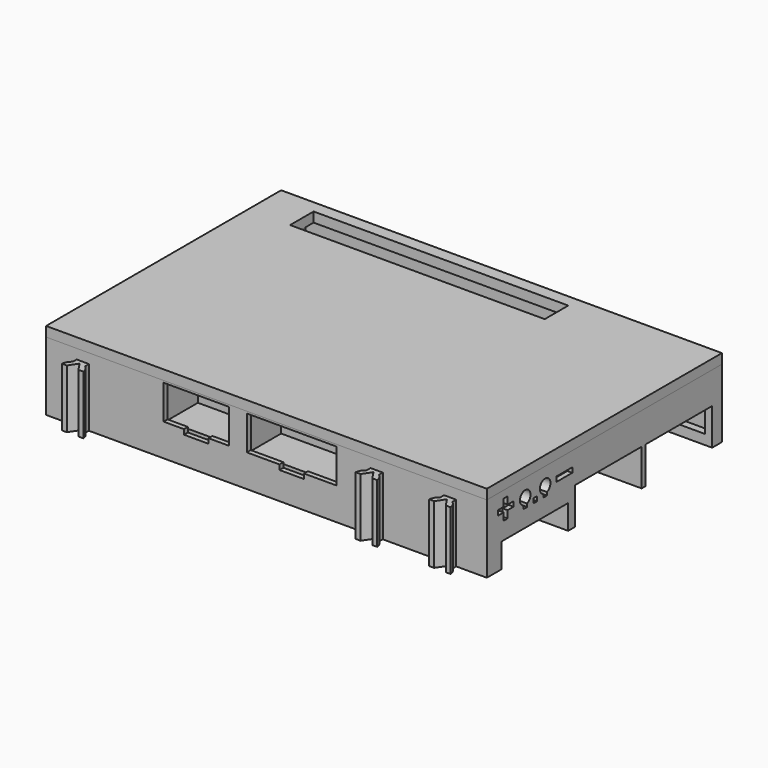
from build123d import *

# Parameters (mm, degrees)
BOX028_W                   = 22
BOX028_H                   = 17
BOX028_DEPTH               = 1.8
BOX029_W                   = 12.5
BOX029_H                   = 15
BOX029_DEPTH               = 1.8
BOX030_W                   = 66
BOX030_H                   = 56.5
BOX030_DEPTH               = 1.6
BOX038_W                   = 16.35
BOX038_H                   = 9
BOX038_DEPTH               = 5
BOX037_W                   = 11.3
BOX037_H                   = 9
BOX037_DEPTH               = 5
BOX039_W                   = 20.35
BOX039_H                   = 9
BOX039_DEPTH               = 9
BOX040_W                   = 15.3
BOX040_H                   = 9
BOX040_DEPTH               = 9
BOX041_W                   = 41.3
BOX041_H                   = 11
BOX041_DEPTH               = 9
BOX035_W                   = 22
BOX035_H                   = 17
BOX035_DEPTH               = 1.8
BOX032_W                   = 10
BOX032_H                   = 2
BOX032_DEPTH               = 7
CHAMFER006_SIZE            = 0.9
CHAMFER006_PLACEMENT_ANGLE = 180
BOX031_W                   = 10
BOX031_H                   = 2
BOX031_DEPTH               = 7
CHAMFER005_SIZE            = 0.9
BOX036_W                   = 12.5
BOX036_H                   = 15
BOX036_DEPTH               = 1.8
BOX034_W                   = 10
BOX034_H                   = 2
BOX034_DEPTH               = 7
CHAMFER008_SIZE            = 0.9
BOX033_W                   = 10
BOX033_H                   = 2
BOX033_DEPTH               = 7
CHAMFER007_SIZE            = 0.9
CHAMFER007_PLACEMENT_ANGLE = 180
BOX011_W                   = 52
BOX011_H                   = 6
BOX011_DEPTH               = 2
BOX009_W                   = 90
BOX009_H                   = 60
BOX009_DEPTH               = 2
CYLINDER014_R              = 1.3
CYLINDER014_DEPTH          = 8
CYLINDER015_R              = 1.3
CYLINDER015_DEPTH          = 8
CYLINDER016_R              = 1.3
CYLINDER016_DEPTH          = 8
CYLINDER013_R              = 1.3
CYLINDER013_DEPTH          = 8
CYLINDER009_R              = 3
CYLINDER009_DEPTH          = 9
CYLINDER010_R              = 3
CYLINDER010_DEPTH          = 9
CYLINDER012_R              = 2.6
CYLINDER012_DEPTH          = 9
CYLINDER011_R              = 3
CYLINDER011_DEPTH          = 9
BOX017_W                   = 2
BOX017_H                   = 2
BOX017_DEPTH               = 2
BOX016_W                   = 2
BOX016_H                   = 2
BOX016_DEPTH               = 2
BOX015_W                   = 2
BOX015_H                   = 2
BOX015_DEPTH               = 2
BOX014_W                   = 2
BOX014_H                   = 2
BOX014_DEPTH               = 2
CHAMFER002_SIZE            = 0.6
CHAMFER002_PLACEMENT_ANGLE = 180
BOX026_W                   = 2
BOX026_H                   = 3
BOX026_DEPTH               = 7
BOX024_W                   = 2
BOX024_H                   = 11
BOX024_DEPTH               = 6.4
CHAMFER004_SIZE            = 0.6
BOX045_W                   = 5
BOX045_H                   = 10
BOX045_DEPTH               = 2
BOX042_W                   = 13.3
BOX042_H                   = 9
BOX042_DEPTH               = 7
BOX043_W                   = 18.35
BOX043_H                   = 9
BOX043_DEPTH               = 7
BOX044_W                   = 5
BOX044_H                   = 10
BOX044_DEPTH               = 2
BOX027_W                   = 2
BOX027_H                   = 3
BOX027_DEPTH               = 7
BOX025_W                   = 2
BOX025_H                   = 11
BOX025_DEPTH               = 4
CHAMFER003_SIZE            = 0.4
BOX020_W                   = 1
BOX020_H                   = 4
BOX020_DEPTH               = 1
BOX021_W                   = 1
BOX021_H                   = 1
BOX021_DEPTH               = 4
BOX022_W                   = 1
BOX022_H                   = 4
BOX022_DEPTH               = 1
BOX018_W                   = 22
BOX018_H                   = 20
BOX018_DEPTH               = 2
BOX019_W                   = 3
BOX019_H                   = 9
BOX019_DEPTH               = 5
BOX007_W                   = 19.5
BOX007_H                   = 1
BOX007_DEPTH               = 14
BOX008_W                   = 2
BOX008_H                   = 38.25
BOX008_DEPTH               = 14
BOX006_W                   = 17.5
BOX006_H                   = 1.75
BOX006_DEPTH               = 14
CYLINDER008_R              = 2.9
CYLINDER008_DEPTH          = 1.3
CHAMFER001_SIZE            = 1.29
BOX003_W                   = 52
BOX003_H                   = 6
BOX003_DEPTH               = 2
BOX004_W                   = 18
BOX004_H                   = 17
BOX004_DEPTH               = 7.5
BOX005_W                   = 18
BOX005_H                   = 17
BOX005_DEPTH               = 7.5
BOX002_W                   = 23
BOX002_H                   = 17
BOX002_DEPTH               = 5
FUSION006_PLACEMENT_ANGLE  = 180
CYLINDER004_R              = 1.6
CYLINDER004_DEPTH          = 4
CYLINDER005_R              = 1.6
CYLINDER005_DEPTH          = 4
CYLINDER007_R              = 1.6
CYLINDER007_DEPTH          = 4
CYLINDER006_R              = 1.6
CYLINDER006_DEPTH          = 4
CYLINDER003_R              = 3
CYLINDER003_DEPTH          = 2
CYLINDER002_R              = 3
CYLINDER002_DEPTH          = 2
CYLINDER001_R              = 2.5
CYLINDER001_DEPTH          = 2
CYLINDER_R                 = 3
CYLINDER_DEPTH             = 2
BOX001_W                   = 87
BOX001_H                   = 58
BOX001_DEPTH               = 12
BOX_W                      = 90
BOX_H                      = 60
BOX_DEPTH                  = 14
CHAMFER_SIZE               = 1.3
EXTRUDE013_DEPTH           = 6
EXTRUDE013_ROLL_ANGLE      = -90
EXTRUDE013_PLACEMENT_ANGLE = 180
EXTRUDE012_DEPTH           = 6
EXTRUDE012_ROLL_ANGLE      = -90
EXTRUDE012_PLACEMENT_ANGLE = 180
FUSION023_PLACEMENT_ANGLE  = 90
EXTRUDE004_DEPTH           = 12
EXTRUDE005_DEPTH           = 12
EXTRUDE006_DEPTH           = 12
EXTRUDE006_PLACEMENT_ANGLE = 180
EXTRUDE007_DEPTH           = 12
EXTRUDE007_PLACEMENT_ANGLE = 180
EXTRUDE008_DEPTH           = 12
EXTRUDE008_PLACEMENT_ANGLE = 180
EXTRUDE009_DEPTH           = 12
EXTRUDE009_PLACEMENT_ANGLE = 180
EXTRUDE010_DEPTH           = 12
EXTRUDE010_PLACEMENT_ANGLE = 180
EXTRUDE011_DEPTH           = 12
EXTRUDE011_PLACEMENT_ANGLE = 180
EXTRUDE_DEPTH              = 12


with BuildPart() as obj1:
    # Box028 → Box028 (new body)
    with BuildSketch(Plane(origin=(-6, 0, 8), x_dir=(1, 0, 0), z_dir=(0, 0, 1))):
        with Locations((11, 8.5)):
            Rectangle(BOX028_W, BOX028_H)
    extrude(amount=BOX028_DEPTH)


with BuildPart() as levelshifter:
    # Box029 → Box029 (new body)
    with BuildSketch(Plane(origin=(-29, 2, 8), x_dir=(1, 0, 0), z_dir=(0, 0, 1))):
        with Locations((6.25, 7.5)):
            Rectangle(BOX029_W, BOX029_H)
    extrude(amount=BOX029_DEPTH)


with BuildPart() as protoboard:
    # Box030 → Box030 (new body)
    with BuildSketch(Plane(origin=(-43, -28, 4), x_dir=(1, 0, 0), z_dir=(0, 0, 1))):
        with Locations((33, 28.25)):
            Rectangle(BOX030_W, BOX030_H)
    extrude(amount=BOX030_DEPTH)


with BuildPart() as buchse_10_pin:
    # Box038 → Box038 (new body)
    with BuildSketch(Plane(origin=(-3, -24, 7.6), x_dir=(1, 0, 0), z_dir=(0, 0, 1))):
        with Locations((8.175, 4.5)):
            Rectangle(BOX038_W, BOX038_H)
    extrude(amount=BOX038_DEPTH)


with BuildPart() as obj2:
    # Box037 → Box037 (new body)
    with BuildSketch(Plane(origin=(-20, -24, 7.6), x_dir=(1, 0, 0), z_dir=(0, 0, 1))):
        with Locations((5.65, 4.5)):
            Rectangle(BOX037_W, BOX037_H)
    extrude(amount=BOX037_DEPTH)

    # Fusion033: union Buchse 10-pin
    add(buchse_10_pin.part)


with BuildPart() as buchse_10_pin001:
    # Box039 → Box039 (new body)
    with BuildSketch(Plane(origin=(-5, -29, 5.6), x_dir=(1, 0, 0), z_dir=(0, 0, 1))):
        with Locations((10.175, 4.5)):
            Rectangle(BOX039_W, BOX039_H)
    extrude(amount=BOX039_DEPTH)


with BuildPart() as obj3:
    # Box040 → Box040 (new body)
    with BuildSketch(Plane(origin=(-22, -29, 5.6), x_dir=(1, 0, 0), z_dir=(0, 0, 1))):
        with Locations((7.65, 4.5)):
            Rectangle(BOX040_W, BOX040_H)
    extrude(amount=BOX040_DEPTH)

    # Fusion031: union Buchse 10-pin001
    add(buchse_10_pin001.part)


with BuildPart() as obj4:
    # Box041 → Box041 (new body)
    with BuildSketch(Plane(origin=(-24, -29, 5.6), x_dir=(1, 0, 0), z_dir=(0, 0, 1))):
        with Locations((20.65, 5.5)):
            Rectangle(BOX041_W, BOX041_H)
    extrude(amount=BOX041_DEPTH)


with BuildPart() as obj5:
    # Box035 → Box035 (new body)
    with BuildSketch(Plane(origin=(-6, 0, 8), x_dir=(1, 0, 0), z_dir=(0, 0, 1))):
        with Locations((11, 8.5)):
            Rectangle(BOX035_W, BOX035_H)
    extrude(amount=BOX035_DEPTH)


with BuildPart() as obj6:
    # Box032 → Box032 (new body)
    with BuildSketch(Plane(origin=(0, -1, 7), x_dir=(1, 0, 0), z_dir=(0, 0, 1))):
        with Locations((5, 1)):
            Rectangle(BOX032_W, BOX032_H)
    extrude(amount=BOX032_DEPTH)

    # Chamfer006
    chamfer006_edges = [obj6.edges().sort_by_distance(p)[0] for p in [
        (5, 1, 7),
    ]]
    chamfer(chamfer006_edges, length=CHAMFER006_SIZE)


with BuildPart() as obj6_1:
    # Chamfer006 placement: moved
    add(obj6.part.moved(Location((10, 17, 0))).rotate(Axis((10, 17, 0), (0, 0, 1)), CHAMFER006_PLACEMENT_ANGLE))


with BuildPart() as obj7:
    # Box031 → Box031 (new body)
    with BuildSketch(Plane(origin=(0, -1, 7), x_dir=(1, 0, 0), z_dir=(0, 0, 1))):
        with Locations((5, 1)):
            Rectangle(BOX031_W, BOX031_H)
    extrude(amount=BOX031_DEPTH)

    # Chamfer005
    chamfer005_edges = [obj7.edges().sort_by_distance(p)[0] for p in [
        (5, 1, 7),
    ]]
    chamfer(chamfer005_edges, length=CHAMFER005_SIZE)

    # Fusion027: union obj6
    add(obj6_1.part)

    # Cut009: cut obj5
    add(obj5.part, mode=Mode.SUBTRACT)


with BuildPart() as levelshifter001:
    # Box036 → Box036 (new body)
    with BuildSketch(Plane(origin=(-29, 2, 8), x_dir=(1, 0, 0), z_dir=(0, 0, 1))):
        with Locations((6.25, 7.5)):
            Rectangle(BOX036_W, BOX036_H)
    extrude(amount=BOX036_DEPTH)


with BuildPart() as obj8:
    # Box034 → Box034 (new body)
    with BuildSketch(Plane(origin=(0, -1, 7), x_dir=(1, 0, 0), z_dir=(0, 0, 1))):
        with Locations((5, 1)):
            Rectangle(BOX034_W, BOX034_H)
    extrude(amount=BOX034_DEPTH)

    # Chamfer008
    chamfer008_edges = [obj8.edges().sort_by_distance(p)[0] for p in [
        (5, 1, 7),
    ]]
    chamfer(chamfer008_edges, length=CHAMFER008_SIZE)


with BuildPart() as obj8_1:
    # Chamfer008 placement: moved
    add(obj8.part.moved(Location((-28, 2, 0))))


with BuildPart() as obj9:
    # Box033 → Box033 (new body)
    with BuildSketch(Plane(origin=(0, -1, 7), x_dir=(1, 0, 0), z_dir=(0, 0, 1))):
        with Locations((5, 1)):
            Rectangle(BOX033_W, BOX033_H)
    extrude(amount=BOX033_DEPTH)

    # Chamfer007
    chamfer007_edges = [obj9.edges().sort_by_distance(p)[0] for p in [
        (5, 1, 7),
    ]]
    chamfer(chamfer007_edges, length=CHAMFER007_SIZE)


with BuildPart() as obj9_1:
    # Chamfer007 placement: moved
    add(obj9.part.moved(Location((-18, 17, 0))).rotate(Axis((-18, 17, 0), (0, 0, 1)), CHAMFER007_PLACEMENT_ANGLE))

    # Fusion028: union obj8
    add(obj8_1.part)

    # Cut010: cut Levelshifter001
    add(levelshifter001.part, mode=Mode.SUBTRACT)


with BuildPart() as obj10:
    # Box011 → Box011 (new body)
    with BuildSketch(Plane(origin=(-36.38, 21.5, 14), x_dir=(1, 0, 0), z_dir=(0, 0, 1))):
        with Locations((26, 3)):
            Rectangle(BOX011_W, BOX011_H)
    extrude(amount=BOX011_DEPTH)


with BuildPart() as obj11:
    # Box009 → Box009 (new body)
    with BuildSketch(Plane(origin=(-45, -30, 14), x_dir=(1, 0, 0), z_dir=(0, 0, 1))):
        with Locations((45, 30)):
            Rectangle(BOX009_W, BOX009_H)
    extrude(amount=BOX009_DEPTH)

    # Cut003: cut obj10
    add(obj10.part, mode=Mode.SUBTRACT)


with BuildPart() as zylinder014:
    # Cylinder014 → Cylinder014 (new body)
    with BuildSketch(Plane(origin=(-39, 24.5, 0), x_dir=(1, 0, 0), z_dir=(0, 0, 1))):
        Circle(CYLINDER014_R)
    extrude(amount=CYLINDER014_DEPTH)


with BuildPart() as fusion017:
    # Cylinder015 → Cylinder015 (new body)
    with BuildSketch(Plane(origin=(-39, -24.5, 0), x_dir=(1, 0, 0), z_dir=(0, 0, 1))):
        Circle(CYLINDER015_R)
    extrude(amount=CYLINDER015_DEPTH)

    # Fusion017: union Zylinder014
    add(zylinder014.part)


with BuildPart() as fusion017_1:
    # Fusion017 placement: moved
    add(fusion017.part.moved(Location((58, 0, 0))))


with BuildPart() as zylinder016:
    # Cylinder016 → Cylinder016 (new body)
    with BuildSketch(Plane(origin=(-39, 24.5, 0), x_dir=(1, 0, 0), z_dir=(0, 0, 1))):
        Circle(CYLINDER016_R)
    extrude(amount=CYLINDER016_DEPTH)


with BuildPart() as obj12:
    # Cylinder013 → Cylinder013 (new body)
    with BuildSketch(Plane(origin=(-39, -24.5, 0), x_dir=(1, 0, 0), z_dir=(0, 0, 1))):
        Circle(CYLINDER013_R)
    extrude(amount=CYLINDER013_DEPTH)

    # Fusion016: union Zylinder016
    add(zylinder016.part)

    # Fusion018: union Fusion017
    add(fusion017_1.part)


with BuildPart() as obj12_1:
    # Fusion018 placement: moved
    add(obj12.part.moved(Location((0, 0, 5.6))))


with BuildPart() as zylinder009:
    # Cylinder009 → Cylinder009 (new body)
    with BuildSketch(Plane(origin=(-39, 24.5, 2), x_dir=(1, 0, 0), z_dir=(0, 0, 1))):
        Circle(CYLINDER009_R)
    extrude(amount=CYLINDER009_DEPTH)


with BuildPart() as fusion013:
    # Cylinder010 → Cylinder010 (new body)
    with BuildSketch(Plane(origin=(-39, -24.5, 2), x_dir=(1, 0, 0), z_dir=(0, 0, 1))):
        Circle(CYLINDER010_R)
    extrude(amount=CYLINDER010_DEPTH)

    # Fusion013: union Zylinder009
    add(zylinder009.part)


with BuildPart() as fusion013_1:
    # Fusion013 placement: moved
    add(fusion013.part.moved(Location((58, 0, 0))))


with BuildPart() as zylinder012:
    # Cylinder012 → Cylinder012 (new body)
    with BuildSketch(Plane(origin=(-39, 24.5, 2), x_dir=(1, 0, 0), z_dir=(0, 0, 1))):
        Circle(CYLINDER012_R)
    extrude(amount=CYLINDER012_DEPTH)


with BuildPart() as obj13:
    # Cylinder011 → Cylinder011 (new body)
    with BuildSketch(Plane(origin=(-39, -24.5, 2), x_dir=(1, 0, 0), z_dir=(0, 0, 1))):
        Circle(CYLINDER011_R)
    extrude(amount=CYLINDER011_DEPTH)

    # Fusion014: union Zylinder012
    add(zylinder012.part)

    # Fusion015: union Fusion013
    add(fusion013_1.part)


with BuildPart() as obj13_1:
    # Fusion015 placement: moved
    add(obj13.part.moved(Location((0, 0, 3.6))))

    # Cut004: cut obj12
    add(obj12_1.part, mode=Mode.SUBTRACT)


with BuildPart() as obj14:
    # Box017 → Box017 (new body)
    with BuildSketch(Plane(origin=(41.3, -28.8, 14), x_dir=(1, 0, 0), z_dir=(0, 0, 1))):
        with Locations((1, 1)):
            Rectangle(BOX017_W, BOX017_H)
    extrude(amount=BOX017_DEPTH)


with BuildPart() as fusion020:
    # Box016 → Box016 (new body)
    with BuildSketch(Plane(origin=(41.3, 26.8, 14), x_dir=(1, 0, 0), z_dir=(0, 0, 1))):
        with Locations((1, 1)):
            Rectangle(BOX016_W, BOX016_H)
    extrude(amount=BOX016_DEPTH)

    # Fusion020: union obj14
    add(obj14.part)


with BuildPart() as fusion020_1:
    # Fusion020 placement: moved
    add(fusion020.part.moved(Location((-84.6, 0, 0))))


with BuildPart() as obj15:
    # Box015 → Box015 (new body)
    with BuildSketch(Plane(origin=(41.3, -28.8, 14), x_dir=(1, 0, 0), z_dir=(0, 0, 1))):
        with Locations((1, 1)):
            Rectangle(BOX015_W, BOX015_H)
    extrude(amount=BOX015_DEPTH)


with BuildPart() as obj16:
    # Box014 → Box014 (new body)
    with BuildSketch(Plane(origin=(41.3, 26.8, 14), x_dir=(1, 0, 0), z_dir=(0, 0, 1))):
        with Locations((1, 1)):
            Rectangle(BOX014_W, BOX014_H)
    extrude(amount=BOX014_DEPTH)

    # Fusion019: union obj15
    add(obj15.part)

    # Fusion021: union Fusion020
    add(fusion020_1.part)

    # Chamfer002
    chamfer002_edges = [obj16.edges().sort_by_distance(p)[0] for p in [
        (43.3, 27.8, 16),
        (42.3, 28.8, 16),
        (43.3, -27.8, 16),
        (42.3, -28.8, 16),
        (-43.3, 27.8, 16),
        (-42.3, 28.8, 16),
        (-43.3, -27.8, 16),
        (-42.3, -28.8, 16),
    ]]
    chamfer(chamfer002_edges, length=CHAMFER002_SIZE)


with BuildPart() as obj16_1:
    # Chamfer002 placement: moved
    add(obj16.part.moved(Location((0, 0, 28))).rotate(Axis((0, 0, 28), (1, 0, 0)), CHAMFER002_PLACEMENT_ANGLE))


with BuildPart() as obj17:
    # Box026 → Box026 (new body)
    with BuildSketch(Plane(origin=(31.5, -19, 7), x_dir=(1, 0, 0), z_dir=(0, 0, 1))):
        with Locations((1, 1.5)):
            Rectangle(BOX026_W, BOX026_H)
    extrude(amount=BOX026_DEPTH)


with BuildPart() as obj18:
    # Box024 → Box024 (new body)
    with BuildSketch(Plane(origin=(31.5, -23, 7.8), x_dir=(1, 0, 0), z_dir=(0, 0, 1))):
        with Locations((1, 5.5)):
            Rectangle(BOX024_W, BOX024_H)
    extrude(amount=BOX024_DEPTH)

    # Cut007: cut obj17
    add(obj17.part, mode=Mode.SUBTRACT)

    # Chamfer004
    chamfer004_edges = [obj18.edges().sort_by_distance(p)[0] for p in [
        (31.5, -14, 7.8),
        (31.5, -21, 7.8),
    ]]
    chamfer(chamfer004_edges, length=CHAMFER004_SIZE)

    # Fusion022: union obj11, obj13, obj16
    add(obj11.part)
    add(obj13_1.part)
    add(obj16_1.part)

    # Fusion029: union obj7, obj9
    add(obj7.part)
    add(obj9_1.part)

    # Fusion030: union obj4
    add(obj4.part)

    # Cut011: cut obj3
    add(obj3.part, mode=Mode.SUBTRACT)

    # Cut012: cut obj2
    add(obj2.part, mode=Mode.SUBTRACT)


with BuildPart() as nut2:
    # Box045 → Box045 (new body)
    with BuildSketch(Plane(origin=(3.66, -34, 6.6), x_dir=(1, 0, 0), z_dir=(0, 0, 1))):
        with Locations((2.5, 5)):
            Rectangle(BOX045_W, BOX045_H)
    extrude(amount=BOX045_DEPTH)


with BuildPart() as buchse_6_pin002:
    # Box042 → Box042 (new body)
    with BuildSketch(Plane(origin=(-20, -34, 7.6), x_dir=(1, 0, 0), z_dir=(0, 0, 1))):
        with Locations((6.65, 4.5)):
            Rectangle(BOX042_W, BOX042_H)
    extrude(amount=BOX042_DEPTH)


with BuildPart() as buchse_10_pin002:
    # Box043 → Box043 (new body)
    with BuildSketch(Plane(origin=(-3, -34, 7.6), x_dir=(1, 0, 0), z_dir=(0, 0, 1))):
        with Locations((9.175, 4.5)):
            Rectangle(BOX043_W, BOX043_H)
    extrude(amount=BOX043_DEPTH)


with BuildPart() as obj19:
    # Box044 → Box044 (new body)
    with BuildSketch(Plane(origin=(-15.85, -34, 6.6), x_dir=(1, 0, 0), z_dir=(0, 0, 1))):
        with Locations((2.5, 5)):
            Rectangle(BOX044_W, BOX044_H)
    extrude(amount=BOX044_DEPTH)

    # Fusion034: union Nut2, Buchse 6-pin002, Buchse 10-pin002
    add(nut2.part)
    add(buchse_6_pin002.part)
    add(buchse_10_pin002.part)


with BuildPart() as obj19_1:
    # Fusion034 placement: moved
    add(obj19.part.moved(Location((-1, 0, -1))))


with BuildPart() as obj20:
    # Box027 → Box027 (new body)
    with BuildSketch(Plane(origin=(29.5, -19, 7), x_dir=(1, 0, 0), z_dir=(0, 0, 1))):
        with Locations((1, 1.5)):
            Rectangle(BOX027_W, BOX027_H)
    extrude(amount=BOX027_DEPTH)


with BuildPart() as obj21:
    # Box025 → Box025 (new body)
    with BuildSketch(Plane(origin=(29.5, -23, 6), x_dir=(1, 0, 0), z_dir=(0, 0, 1))):
        with Locations((1, 5.5)):
            Rectangle(BOX025_W, BOX025_H)
    extrude(amount=BOX025_DEPTH)

    # Chamfer003
    chamfer003_edges = [obj21.edges().sort_by_distance(p)[0] for p in [
        (31.5, -17.5, 10),
    ]]
    chamfer(chamfer003_edges, length=CHAMFER003_SIZE)

    # Cut008: cut obj20
    add(obj20.part, mode=Mode.SUBTRACT)


with BuildPart() as obj22:
    # Box020 → Box020 (new body)
    with BuildSketch(Plane.XY.offset(20)):
        with Locations((0.5, 2)):
            Rectangle(BOX020_W, BOX020_H)
    extrude(amount=BOX020_DEPTH)


with BuildPart() as obj23:
    # Box021 → Box021 (new body)
    with BuildSketch(Plane(origin=(0, 1.5, 18.5), x_dir=(1, 0, 0), z_dir=(0, 0, 1))):
        with Locations((0.5, 0.5)):
            Rectangle(BOX021_W, BOX021_H)
    extrude(amount=BOX021_DEPTH)


with BuildPart() as fusion025:
    # Box022 → Box022 (new body)
    with BuildSketch(Plane(origin=(0, 15, 20), x_dir=(1, 0, 0), z_dir=(0, 0, 1))):
        with Locations((0.5, 2)):
            Rectangle(BOX022_W, BOX022_H)
    extrude(amount=BOX022_DEPTH)

    # Fusion025: union obj22, obj23
    add(obj22.part)
    add(obj23.part)


with BuildPart() as fusion025_1:
    # Fusion025 placement: moved
    add(fusion025.part.moved(Location((44, -27.2, -10))))


with BuildPart() as obj24:
    # Box018 → Box018 (new body)
    with BuildSketch(Plane(origin=(23, -29, 5.65), x_dir=(1, 0, 0), z_dir=(0, 0, 1))):
        with Locations((11, 10)):
            Rectangle(BOX018_W, BOX018_H)
    extrude(amount=BOX018_DEPTH)


with BuildPart() as obj25:
    # Box019 → Box019 (new body)
    with BuildSketch(Plane(origin=(42, -22.15, 7.7), x_dir=(1, 0, 0), z_dir=(0, 0, 1))):
        with Locations((1.5, 4.5)):
            Rectangle(BOX019_W, BOX019_H)
    extrude(amount=BOX019_DEPTH)


with BuildPart() as obj26:
    # Box007 → Box007 (new body)
    with BuildSketch(Plane(origin=(24, 9.5, 0), x_dir=(1, 0, 0), z_dir=(0, 0, 1))):
        with Locations((9.75, 0.5)):
            Rectangle(BOX007_W, BOX007_H)
    extrude(amount=BOX007_DEPTH)


with BuildPart() as obj27:
    # Box008 → Box008 (new body)
    with BuildSketch(Plane(origin=(24, -9.25, 0), x_dir=(1, 0, 0), z_dir=(0, 0, 1))):
        with Locations((1, 19.125)):
            Rectangle(BOX008_W, BOX008_H)
    extrude(amount=BOX008_DEPTH)


with BuildPart() as obj28:
    # Box006 → Box006 (new body)
    with BuildSketch(Plane(origin=(26, -9.25, 0), x_dir=(1, 0, 0), z_dir=(0, 0, 1))):
        with Locations((8.75, 0.875)):
            Rectangle(BOX006_W, BOX006_H)
    extrude(amount=BOX006_DEPTH)

    # Fusion009: union obj26, obj27
    add(obj26.part)
    add(obj27.part)


with BuildPart() as chamfer001:
    # Cylinder008 → Cylinder008 (new body)
    with BuildSketch(Plane.XY):
        Circle(CYLINDER008_R)
    extrude(amount=CYLINDER008_DEPTH)

    # Chamfer001
    chamfer001_edges = [chamfer001.edges().sort_by_distance(p)[0] for p in [
        (-2.9, 0, 1.3),
    ]]
    chamfer(chamfer001_edges, length=CHAMFER001_SIZE)


with BuildPart() as chamfer001_1:
    # Chamfer001 placement: moved
    add(chamfer001.part.moved(Location((-39, 24.5, 0))))


with BuildPart() as obj29:
    # Box003 → Box003 (new body)
    with BuildSketch(Plane(origin=(-15.61, -27.5, 0), x_dir=(1, 0, 0), z_dir=(0, 0, 1))):
        with Locations((26, 3)):
            Rectangle(BOX003_W, BOX003_H)
    extrude(amount=BOX003_DEPTH)


with BuildPart() as obj30:
    # Box004 → Box004 (new body)
    with BuildSketch(Plane(origin=(-45, -27.5, 0), x_dir=(1, 0, 0), z_dir=(0, 0, 1))):
        with Locations((9, 8.5)):
            Rectangle(BOX004_W, BOX004_H)
    extrude(amount=BOX004_DEPTH)


with BuildPart() as obj31:
    # Box005 → Box005 (new body)
    with BuildSketch(Plane(origin=(-45, -9.5, 0), x_dir=(1, 0, 0), z_dir=(0, 0, 1))):
        with Locations((9, 8.5)):
            Rectangle(BOX005_W, BOX005_H)
    extrude(amount=BOX005_DEPTH)


with BuildPart() as obj32:
    # Box002 → Box002 (new body)
    with BuildSketch(Plane(origin=(-45, 9.25, 0), x_dir=(1, 0, 0), z_dir=(0, 0, 1))):
        with Locations((11.5, 8.5)):
            Rectangle(BOX002_W, BOX002_H)
    extrude(amount=BOX002_DEPTH)

    # Fusion006: union obj29, obj30, obj31
    add(obj29.part)
    add(obj30.part)
    add(obj31.part)


with BuildPart() as obj32_1:
    # Fusion006 placement: moved
    add(obj32.part.rotate(Axis((0, 0, 0), (0, 0, 1)), FUSION006_PLACEMENT_ANGLE))


with BuildPart() as zylinder004:
    # Cylinder004 → Cylinder004 (new body)
    with BuildSketch(Plane(origin=(-39, 24.5, 0), x_dir=(1, 0, 0), z_dir=(0, 0, 1))):
        Circle(CYLINDER004_R)
    extrude(amount=CYLINDER004_DEPTH)


with BuildPart() as fusion003:
    # Cylinder005 → Cylinder005 (new body)
    with BuildSketch(Plane(origin=(-39, -24.5, 0), x_dir=(1, 0, 0), z_dir=(0, 0, 1))):
        Circle(CYLINDER005_R)
    extrude(amount=CYLINDER005_DEPTH)

    # Fusion003: union Zylinder004
    add(zylinder004.part)


with BuildPart() as fusion003_1:
    # Fusion003 placement: moved
    add(fusion003.part.moved(Location((58, 0, 0))))


with BuildPart() as zylinder007:
    # Cylinder007 → Cylinder007 (new body)
    with BuildSketch(Plane(origin=(-39, 24.5, 0), x_dir=(1, 0, 0), z_dir=(0, 0, 1))):
        Circle(CYLINDER007_R)
    extrude(amount=CYLINDER007_DEPTH)


with BuildPart() as obj33:
    # Cylinder006 → Cylinder006 (new body)
    with BuildSketch(Plane(origin=(-39, -24.5, 0), x_dir=(1, 0, 0), z_dir=(0, 0, 1))):
        Circle(CYLINDER006_R)
    extrude(amount=CYLINDER006_DEPTH)

    # Fusion004: union Zylinder007
    add(zylinder007.part)

    # Fusion005: union Fusion003
    add(fusion003_1.part)

    # Fusion007: union obj32
    add(obj32_1.part)


with BuildPart() as zylinder003:
    # Cylinder003 → Cylinder003 (new body)
    with BuildSketch(Plane(origin=(-39, 24.5, 2), x_dir=(1, 0, 0), z_dir=(0, 0, 1))):
        Circle(CYLINDER003_R)
    extrude(amount=CYLINDER003_DEPTH)


with BuildPart() as fusion001:
    # Cylinder002 → Cylinder002 (new body)
    with BuildSketch(Plane(origin=(-39, -24.5, 2), x_dir=(1, 0, 0), z_dir=(0, 0, 1))):
        Circle(CYLINDER002_R)
    extrude(amount=CYLINDER002_DEPTH)

    # Fusion001: union Zylinder003
    add(zylinder003.part)


with BuildPart() as fusion001_1:
    # Fusion001 placement: moved
    add(fusion001.part.moved(Location((58, 0, 0))))


with BuildPart() as zylinder001:
    # Cylinder001 → Cylinder001 (new body)
    with BuildSketch(Plane(origin=(-39, 24.5, 2), x_dir=(1, 0, 0), z_dir=(0, 0, 1))):
        Circle(CYLINDER001_R)
    extrude(amount=CYLINDER001_DEPTH)


with BuildPart() as obj34:
    # Cylinder → Cylinder (new body)
    with BuildSketch(Plane(origin=(-39, -24.5, 2), x_dir=(1, 0, 0), z_dir=(0, 0, 1))):
        Circle(CYLINDER_R)
    extrude(amount=CYLINDER_DEPTH)

    # Fusion: union Zylinder001
    add(zylinder001.part)

    # Fusion002: union Fusion001
    add(fusion001_1.part)


with BuildPart() as obj35:
    # Box001 → Box001 (new body)
    with BuildSketch(Plane(origin=(-43.5, -29, 2), x_dir=(1, 0, 0), z_dir=(0, 0, 1))):
        with Locations((43.5, 29)):
            Rectangle(BOX001_W, BOX001_H)
    extrude(amount=BOX001_DEPTH)


with BuildPart() as obj36:
    # Box → Box (new body)
    with BuildSketch(Plane(origin=(-45, -30, 0), x_dir=(1, 0, 0), z_dir=(0, 0, 1))):
        with Locations((45, 30)):
            Rectangle(BOX_W, BOX_H)
    extrude(amount=BOX_DEPTH)

    # Cut: cut obj35
    add(obj35.part, mode=Mode.SUBTRACT)

    # Fusion008: union obj34
    add(obj34.part)

    # Cut001: cut obj33
    add(obj33.part, mode=Mode.SUBTRACT)

    # Chamfer
    chamfer_edges = [obj36.edges().sort_by_distance(p)[0] for p in [
        (17.4, -24.5, 0),
        (17.4, 24.5, 0),
        (-40.6, -24.5, 0),
    ]]
    chamfer(chamfer_edges, length=CHAMFER_SIZE)

    # Cut002: cut Chamfer001
    add(chamfer001_1.part, mode=Mode.SUBTRACT)

    # Fusion010: union obj28
    add(obj28.part)

    # Cut005: cut obj25
    add(obj25.part, mode=Mode.SUBTRACT)


with BuildPart() as buchse001:
    # Sketch027 → Extrude013 (new body)
    with BuildSketch(Plane.XY):
        Polygon((-2.54, -3.83), (2.54, -3.83), (2.54, -0.47), (2.07, -0.47), (2.07, 0.47), (2.54, 0.47), (2.54, 1.35), (-2.54, 1.35), (-2.54, 0.47), (-2.07, 0.47), (-2.07, -0.47), (-2.54, -0.47), align=None)
        with BuildLine():
            ThreePointArc((-0.47, -0.174457), (0, -2.79), (0.47, -0.174457))
            Line((0.47, 0.47), (0.47, -0.174457))
            Line((-0.47, 0.47), (0.47, 0.47))
            Line((-0.47, -0.174457), (-0.47, 0.47))
        make_face(mode=Mode.SUBTRACT)
    extrude(amount=EXTRUDE013_DEPTH)


with BuildPart() as buchse001_1:
    # Extrude013 roll: moved
    add(buchse001.part.rotate(Axis((0, 0, 0), (1, 0, 0)), EXTRUDE013_ROLL_ANGLE))


with BuildPart() as buchse001_2:
    # Extrude013 placement: moved
    add(buchse001_1.part.moved(Location((5.08, 0, 0))).rotate(Axis((5.08, 0, 0), (0, 0, 1)), EXTRUDE013_PLACEMENT_ANGLE))


with BuildPart() as obj37:
    # Sketch026 → Extrude012 (new body)
    with BuildSketch(Plane.XY):
        Polygon((-2.54, -3.83), (2.54, -3.83), (2.54, -0.47), (2.07, -0.47), (2.07, 0.47), (2.54, 0.47), (2.54, 1.35), (-2.54, 1.35), (-2.54, 0.47), (-2.07, 0.47), (-2.07, -0.47), (-2.54, -0.47), align=None)
        with BuildLine():
            ThreePointArc((-0.47, -0.174457), (0, -2.79), (0.47, -0.174457))
            Line((0.47, 0.47), (0.47, -0.174457))
            Line((-0.47, 0.47), (0.47, 0.47))
            Line((-0.47, -0.174457), (-0.47, 0.47))
        make_face(mode=Mode.SUBTRACT)
    extrude(amount=EXTRUDE012_DEPTH)


with BuildPart() as obj37_1:
    # Extrude012 roll: moved
    add(obj37.part.rotate(Axis((0, 0, 0), (1, 0, 0)), EXTRUDE012_ROLL_ANGLE))


with BuildPart() as obj37_2:
    # Extrude012 placement: moved
    add(obj37_1.part.rotate(Axis((0, 0, 0), (0, 0, 1)), EXTRUDE012_PLACEMENT_ANGLE))

    # Fusion023: union Buchse001
    add(buchse001_2.part)


with BuildPart() as obj37_3:
    # Fusion023 placement: moved
    add(obj37_2.part.moved(Location((39, -20.2, 9))).rotate(Axis((39, -20.2, 9), (0, 0, 1)), FUSION023_PLACEMENT_ANGLE))

    # Fusion024: union obj24, obj36
    add(obj24.part)
    add(obj36.part)

    # Cut006: cut Fusion025
    add(fusion025_1.part, mode=Mode.SUBTRACT)

    # Fusion026: union obj21
    add(obj21.part)

    # Cut013: cut obj19
    add(obj19_1.part, mode=Mode.SUBTRACT)


with BuildPart() as extrude004:
    # Sketch011 → Extrude004 (new body)
    with BuildSketch(Plane(origin=(0, 0, 0), x_dir=(1, 0, 0), z_dir=(0, 0, -1))):
        with BuildLine():
            Line((-38.75, 30), (-36.25, 30))
            Line((-36.25, 30), (-36.25, 31))
            ThreePointArc((-36.25, 31), (-35.603093, 31.696052), (-35.310083, 32.6))
            Line((-35.310083, 32.6), (-36.310083, 32.6))
            Line((-37.5, 30.810387), (-36.310083, 32.6))
            Line((-38.689917, 32.6), (-37.5, 30.810387))
            Line((-39.689917, 32.6), (-38.689917, 32.6))
            ThreePointArc((-39.689917, 32.6), (-39.396907, 31.696052), (-38.75, 31))
            Line((-38.75, 30), (-38.75, 31))
        make_face()
    extrude(amount=-EXTRUDE004_DEPTH)


with BuildPart() as extrude004_1:
    # Extrude004 placement: moved
    add(extrude004.part.moved(Location((60, 0, 0))))


with BuildPart() as extrude005:
    # Sketch012 → Extrude005 (new body)
    with BuildSketch(Plane(origin=(0, 0, 0), x_dir=(1, 0, 0), z_dir=(0, 0, -1))):
        with BuildLine():
            Line((-38.75, 30), (-36.25, 30))
            Line((-36.25, 30), (-36.25, 31))
            ThreePointArc((-36.25, 31), (-35.603093, 31.696052), (-35.310083, 32.6))
            Line((-35.310083, 32.6), (-36.310083, 32.6))
            Line((-37.5, 30.810387), (-36.310083, 32.6))
            Line((-38.689917, 32.6), (-37.5, 30.810387))
            Line((-39.689917, 32.6), (-38.689917, 32.6))
            ThreePointArc((-39.689917, 32.6), (-39.396907, 31.696052), (-38.75, 31))
            Line((-38.75, 30), (-38.75, 31))
        make_face()
    extrude(amount=-EXTRUDE005_DEPTH)


with BuildPart() as extrude005_1:
    # Extrude005 placement: moved
    add(extrude005.part.moved(Location((75, 0, 0))))


with BuildPart() as extrude006:
    # Sketch014 → Extrude006 (new body)
    with BuildSketch(Plane(origin=(0, 0, 0), x_dir=(1, 0, 0), z_dir=(0, 0, -1))):
        with BuildLine():
            Line((-38.75, 30), (-36.25, 30))
            Line((-36.25, 30), (-36.25, 31))
            ThreePointArc((-36.25, 31), (-35.603093, 31.696052), (-35.310083, 32.6))
            Line((-35.310083, 32.6), (-36.310083, 32.6))
            Line((-37.5, 30.810387), (-36.310083, 32.6))
            Line((-38.689917, 32.6), (-37.5, 30.810387))
            Line((-39.689917, 32.6), (-38.689917, 32.6))
            ThreePointArc((-39.689917, 32.6), (-39.396907, 31.696052), (-38.75, 31))
            Line((-38.75, 30), (-38.75, 31))
        make_face()
    extrude(amount=-EXTRUDE006_DEPTH)


with BuildPart() as extrude006_1:
    # Extrude006 placement: moved
    add(extrude006.part.moved(Location((-15, 0, 0))).rotate(Axis((-15, 0, 0), (0, 0, 1)), EXTRUDE006_PLACEMENT_ANGLE))


with BuildPart() as extrude007:
    # Sketch013 → Extrude007 (new body)
    with BuildSketch(Plane(origin=(0, 0, 0), x_dir=(1, 0, 0), z_dir=(0, 0, -1))):
        with BuildLine():
            Line((-38.75, 30), (-36.25, 30))
            Line((-36.25, 30), (-36.25, 31))
            ThreePointArc((-36.25, 31), (-35.603093, 31.696052), (-35.310083, 32.6))
            Line((-35.310083, 32.6), (-36.310083, 32.6))
            Line((-37.5, 30.810387), (-36.310083, 32.6))
            Line((-38.689917, 32.6), (-37.5, 30.810387))
            Line((-39.689917, 32.6), (-38.689917, 32.6))
            ThreePointArc((-39.689917, 32.6), (-39.396907, 31.696052), (-38.75, 31))
            Line((-38.75, 30), (-38.75, 31))
        make_face()
    extrude(amount=-EXTRUDE007_DEPTH)


with BuildPart() as extrude007_1:
    # Extrude007 placement: moved
    add(extrude007.part.rotate(Axis((0, 0, 0), (0, 0, 1)), EXTRUDE007_PLACEMENT_ANGLE))


with BuildPart() as extrude008:
    # Sketch018 → Extrude008 (new body)
    with BuildSketch(Plane(origin=(0, 0, 0), x_dir=(1, 0, 0), z_dir=(0, 0, -1))):
        with BuildLine():
            Line((-38.75, 30), (-36.25, 30))
            Line((-36.25, 30), (-36.25, 31))
            ThreePointArc((-36.25, 31), (-35.603093, 31.696052), (-35.310083, 32.6))
            Line((-35.310083, 32.6), (-36.310083, 32.6))
            Line((-37.5, 30.810387), (-36.310083, 32.6))
            Line((-38.689917, 32.6), (-37.5, 30.810387))
            Line((-39.689917, 32.6), (-38.689917, 32.6))
            ThreePointArc((-39.689917, 32.6), (-39.396907, 31.696052), (-38.75, 31))
            Line((-38.75, 30), (-38.75, 31))
        make_face()
    extrude(amount=-EXTRUDE008_DEPTH)


with BuildPart() as extrude008_1:
    # Extrude008 placement: moved
    add(extrude008.part.moved(Location((-30, 0, 0))).rotate(Axis((-30, 0, 0), (0, 0, 1)), EXTRUDE008_PLACEMENT_ANGLE))


with BuildPart() as extrude009:
    # Sketch015 → Extrude009 (new body)
    with BuildSketch(Plane(origin=(0, 0, 0), x_dir=(1, 0, 0), z_dir=(0, 0, -1))):
        with BuildLine():
            Line((-38.75, 30), (-36.25, 30))
            Line((-36.25, 30), (-36.25, 31))
            ThreePointArc((-36.25, 31), (-35.603093, 31.696052), (-35.310083, 32.6))
            Line((-35.310083, 32.6), (-36.310083, 32.6))
            Line((-37.5, 30.810387), (-36.310083, 32.6))
            Line((-38.689917, 32.6), (-37.5, 30.810387))
            Line((-39.689917, 32.6), (-38.689917, 32.6))
            ThreePointArc((-39.689917, 32.6), (-39.396907, 31.696052), (-38.75, 31))
            Line((-38.75, 30), (-38.75, 31))
        make_face()
    extrude(amount=-EXTRUDE009_DEPTH)


with BuildPart() as extrude009_1:
    # Extrude009 placement: moved
    add(extrude009.part.moved(Location((-60, 0, 0))).rotate(Axis((-60, 0, 0), (0, 0, 1)), EXTRUDE009_PLACEMENT_ANGLE))


with BuildPart() as extrude010:
    # Sketch017 → Extrude010 (new body)
    with BuildSketch(Plane(origin=(0, 0, 0), x_dir=(1, 0, 0), z_dir=(0, 0, -1))):
        with BuildLine():
            Line((-38.75, 30), (-36.25, 30))
            Line((-36.25, 30), (-36.25, 31))
            ThreePointArc((-36.25, 31), (-35.603093, 31.696052), (-35.310083, 32.6))
            Line((-35.310083, 32.6), (-36.310083, 32.6))
            Line((-37.5, 30.810387), (-36.310083, 32.6))
            Line((-38.689917, 32.6), (-37.5, 30.810387))
            Line((-39.689917, 32.6), (-38.689917, 32.6))
            ThreePointArc((-39.689917, 32.6), (-39.396907, 31.696052), (-38.75, 31))
            Line((-38.75, 30), (-38.75, 31))
        make_face()
    extrude(amount=-EXTRUDE010_DEPTH)


with BuildPart() as extrude010_1:
    # Extrude010 placement: moved
    add(extrude010.part.moved(Location((-45, 0, 0))).rotate(Axis((-45, 0, 0), (0, 0, 1)), EXTRUDE010_PLACEMENT_ANGLE))


with BuildPart() as extrude011:
    # Sketch016 → Extrude011 (new body)
    with BuildSketch(Plane(origin=(0, 0, 0), x_dir=(1, 0, 0), z_dir=(0, 0, -1))):
        with BuildLine():
            Line((-38.75, 30), (-36.25, 30))
            Line((-36.25, 30), (-36.25, 31))
            ThreePointArc((-36.25, 31), (-35.603093, 31.696052), (-35.310083, 32.6))
            Line((-35.310083, 32.6), (-36.310083, 32.6))
            Line((-37.5, 30.810387), (-36.310083, 32.6))
            Line((-38.689917, 32.6), (-37.5, 30.810387))
            Line((-39.689917, 32.6), (-38.689917, 32.6))
            ThreePointArc((-39.689917, 32.6), (-39.396907, 31.696052), (-38.75, 31))
            Line((-38.75, 30), (-38.75, 31))
        make_face()
    extrude(amount=-EXTRUDE011_DEPTH)


with BuildPart() as extrude011_1:
    # Extrude011 placement: moved
    add(extrude011.part.moved(Location((-75, 0, 0))).rotate(Axis((-75, 0, 0), (0, 0, 1)), EXTRUDE011_PLACEMENT_ANGLE))


with BuildPart() as obj38:
    # Sketch007 → Extrude (new body)
    with BuildSketch(Plane(origin=(0, 0, 0), x_dir=(1, 0, 0), z_dir=(0, 0, -1))):
        with BuildLine():
            Line((-38.75, 30), (-36.25, 30))
            Line((-36.25, 30), (-36.25, 31))
            ThreePointArc((-36.25, 31), (-35.603093, 31.696052), (-35.310083, 32.6))
            Line((-35.310083, 32.6), (-36.310083, 32.6))
            Line((-37.5, 30.810387), (-36.310083, 32.6))
            Line((-38.689917, 32.6), (-37.5, 30.810387))
            Line((-39.689917, 32.6), (-38.689917, 32.6))
            ThreePointArc((-39.689917, 32.6), (-39.396907, 31.696052), (-38.75, 31))
            Line((-38.75, 30), (-38.75, 31))
        make_face()
    extrude(amount=-EXTRUDE_DEPTH)

    # Fusion032: union Extrude004, Extrude005, Extrude006, Extrude007, Extrude008, Extrude009, Extrude010, Extrude011
    add(extrude004_1.part)
    add(extrude005_1.part)
    add(extrude006_1.part)
    add(extrude007_1.part)
    add(extrude008_1.part)
    add(extrude009_1.part)
    add(extrude010_1.part)
    add(extrude011_1.part)

    # Fusion035: union obj37
    add(obj37_3.part)


solid = Compound([obj1.part, levelshifter.part, protoboard.part, obj18.part, obj38.part])
